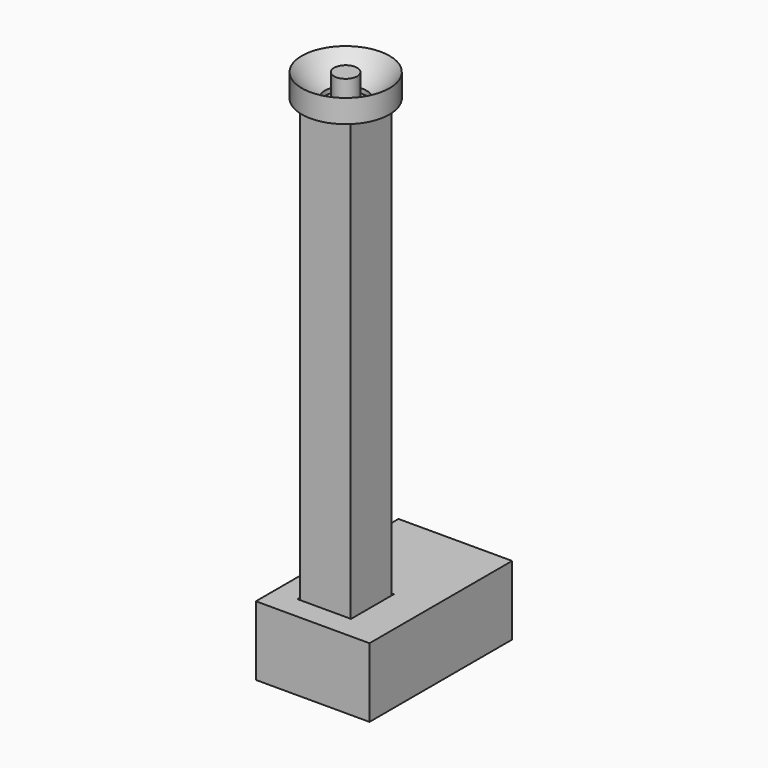
from build123d import *

# Parameters (mm, degrees)
F0_W      = 11
F0_H      = 11
F0_W_2    = 7
F0_H_2    = 7
F1_DEPTH  = 2
F2_W      = 11
F2_H      = 11
F3_DEPTH  = 107
F4_R      = 2.5
F5_DEPTH  = 6
F9_W      = 1
F9_H      = 1
F11_W     = 24.6
F11_H     = 38.6
F11_W_2   = 11.6
F11_H_2   = 11.6
F12_DEPTH = 15
F13_R     = 2
F14_DEPTH = 12


with BuildPart() as f1:
    # F0 (on Top) → F1 (new body)
    with BuildSketch(Plane.XY):
        with Locations((5.5, 5.5)):
            Rectangle(F0_W, F0_H)
        with Locations((5.5, 5.5)):
            Rectangle(F0_W_2, F0_H_2, mode=Mode.SUBTRACT)
    extrude(amount=F1_DEPTH)

    # F2 (on face) → F3 (join)
    with BuildSketch(Plane.XY.offset(2)):
        with Locations((5.5, 5.5)):
            Rectangle(F2_W, F2_H)
    extrude(amount=F3_DEPTH)

    # F4 (on face) → F5 (join)
    with BuildSketch(Plane.XY.offset(109)):
        with Locations((5.5, 5.5)):
            Circle(F4_R)
    extrude(amount=F5_DEPTH)


with BuildPart() as f10:
    # F9 (on mid) → F10 (revolve)
    with BuildSketch(Plane.XZ.offset(-5.5)):
        with BuildLine():
            Line((11, 110), (15, 110))
            Line((15, 110), (15, 115))
            ThreePointArc((15, 115), (12.747548784, 112.252451216), (10, 110))
            Line((10, 110), (11, 110))
        make_face()
        with Locations((10.5, 109.5)):
            Rectangle(F9_W, F9_H)
    revolve(axis=Axis((5.5, 5.5, 115), (0, 0, 1)))


with BuildPart() as f12:
    # F11 (on Top) → F12 (new body)
    with BuildSketch(Plane.XY):
        with Locations((7, 14)):
            Rectangle(F11_W, F11_H)
        with Locations((5.5, 5.5)):
            Rectangle(F11_W_2, F11_H_2, mode=Mode.SUBTRACT)
    extrude(amount=F12_DEPTH)

    # F13 (on face) → F14 (cut)
    with BuildSketch(Plane(origin=(0, 33.3, 0), x_dir=(-1, 0, 0), z_dir=(0, 1, 0))):
        with Locations((-13, 7.5)):
            Circle(F13_R)
        with Locations((-3, 7.5)):
            Circle(F13_R)
    extrude(amount=-F14_DEPTH, mode=Mode.SUBTRACT)


solid = Compound([f1.part, f10.part, f12.part])
